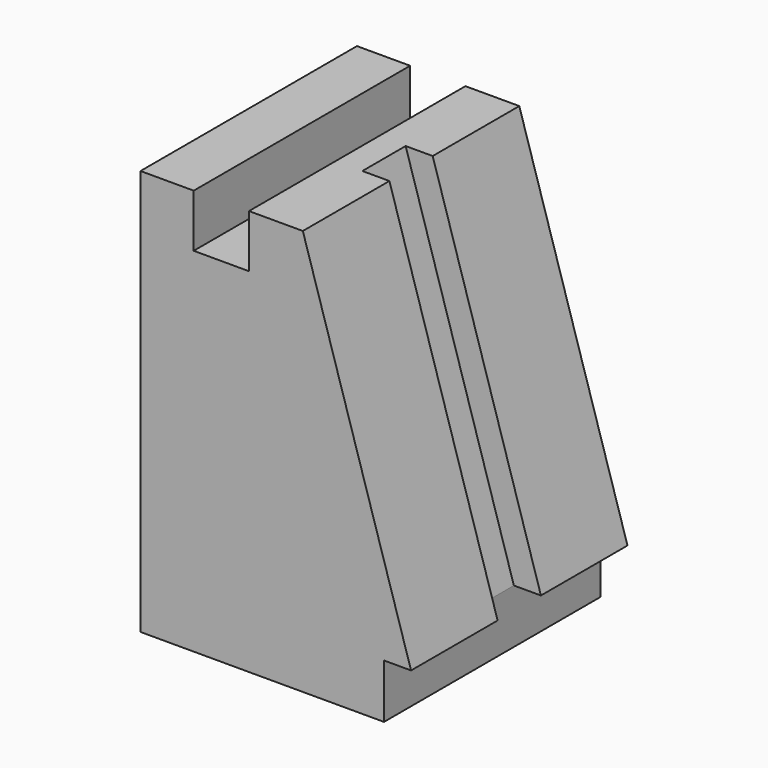
from build123d import *

# Parameters (mm, degrees)
F1_DEPTH   = 100
F1_FACE1_W = 100
F1_FACE1_H = 20
F2_W       = 20
F2_H       = 136.0147050874
F3_DEPTH   = 10


with BuildPart() as f1:
    # F0 (on Front) → F1 (new body)
    with BuildSketch(Plane.XZ):
        Polygon((0, 150), (0, 0), (100, 0), (100, 20), (60, 150), (40.0922819972, 150), (40.0922819972, 130.4294615984), (19.6595229208, 130.4294615984), (19.6595229208, 150), align=None)
    extrude(amount=F1_DEPTH)

    # F1_face1 (on face) + F2 (on face) → F3 (cut)
    with BuildSketch(Plane(origin=(100, -50, 10), x_dir=(0, 1, 0), z_dir=(1, 0, 0))):
        Rectangle(F1_FACE1_W, F1_FACE1_H)
    with BuildSketch(Plane(origin=(96.972972973, 0, 29.8378378378), x_dir=(0, 1, 0), z_dir=(0.9557790087, 0, 0.2940858488))):
        with Locations((-50, 57.7143478344)):
            Rectangle(F2_W, F2_H)
    extrude(amount=-F3_DEPTH, dir=(1, 0, 0), mode=Mode.SUBTRACT)


solid = f1.part
